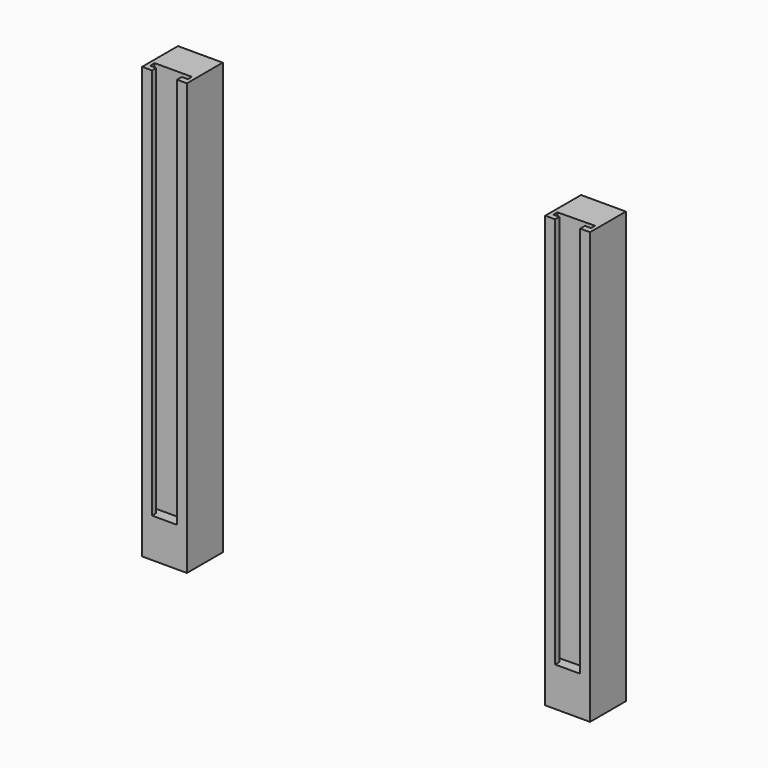
from build123d import *

# Parameters (mm, degrees)
F0_W     = 50.8
F0_H     = 488.95
F1_DEPTH = 50.8
F3_DEPTH = 444.5
F4_DEPTH = 444.5


with BuildPart() as f1:
    # F0 (on Front) → F1 (new body)
    with BuildSketch(Plane.XZ):
        with Locations((-215.716244, 123.719156)):
            Rectangle(F0_W, F0_H)
        with Locations((241.483756, 123.719156)):
            Rectangle(F0_W, F0_H)
    extrude(amount=F1_DEPTH)

    # F2 (on face) → F3 (cut)
    with BuildSketch(Plane.XY.offset(368.194156)):
        Polygon((-229.940244, -44.785139), (-229.940244, -50.8), (-201.492244, -50.8), (-201.492244, -44.117086), (-194.634244, -44.117086), (-194.634244, -38.354754), (-236.798244, -38.354754), (-236.798244, -44.785139), align=None)
    extrude(amount=-F3_DEPTH, mode=Mode.SUBTRACT)

    # F2 (on face) → F4 (cut)
    with BuildSketch(Plane.XY.offset(368.194156)):
        Polygon((227.259756, -44.785139), (227.259756, -50.8), (255.707756, -50.8), (255.707756, -44.117086), (262.565756, -44.117086), (262.565756, -38.351286), (220.401756, -39.019339), (220.401756, -44.785139), align=None)
    extrude(amount=-F4_DEPTH, mode=Mode.SUBTRACT)


solid = f1.part
